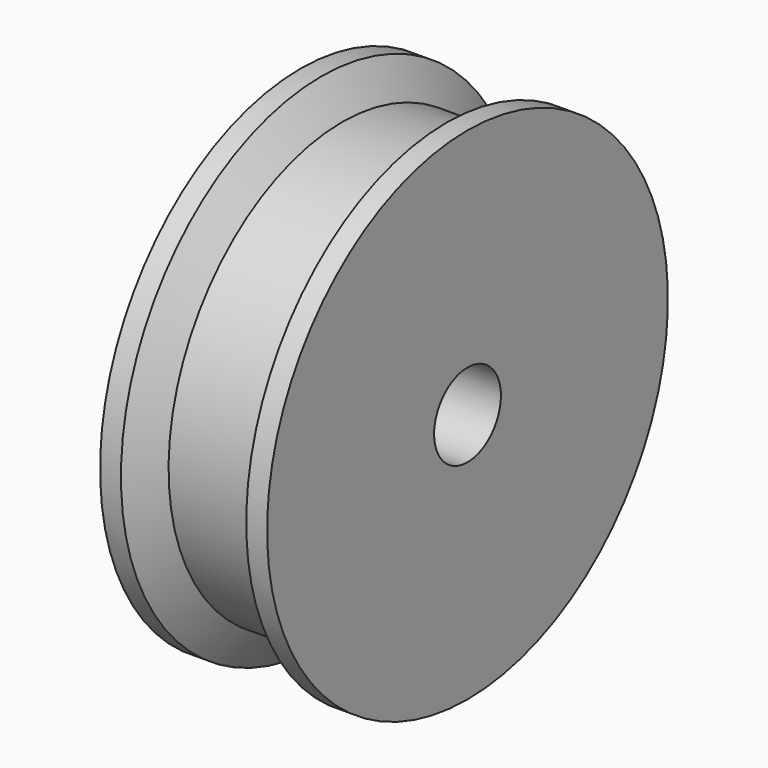
from build123d import *


with BuildPart() as f1:
    # F0 (on Front) → F1 (revolve)
    with BuildSketch(Plane.XZ):
        Polygon((-5, 12.5), (-5, 7.5), (-2.5, 7.5), (2.5, 7.5), (5, 7.5), (5, 12.5), (3.75, 12.5), (2.5, 10.5), (-2.5, 10.5), (-3.75, 12.5), align=None)
        Polygon((-5, 7.5), (-5, 5), (-2.5, 5), (2.5, 5), (5, 5), (5, 7.5), (2.5, 7.5), (-2.5, 7.5), align=None)
        Polygon((-5, 5), (-5, 0), (5, 0), (5, 5), (2.5, 5), (-2.5, 5), align=None)
    revolve(axis=Axis((0.609778, 0, -2.5), (1, 0, 0)))


solid = f1.part
